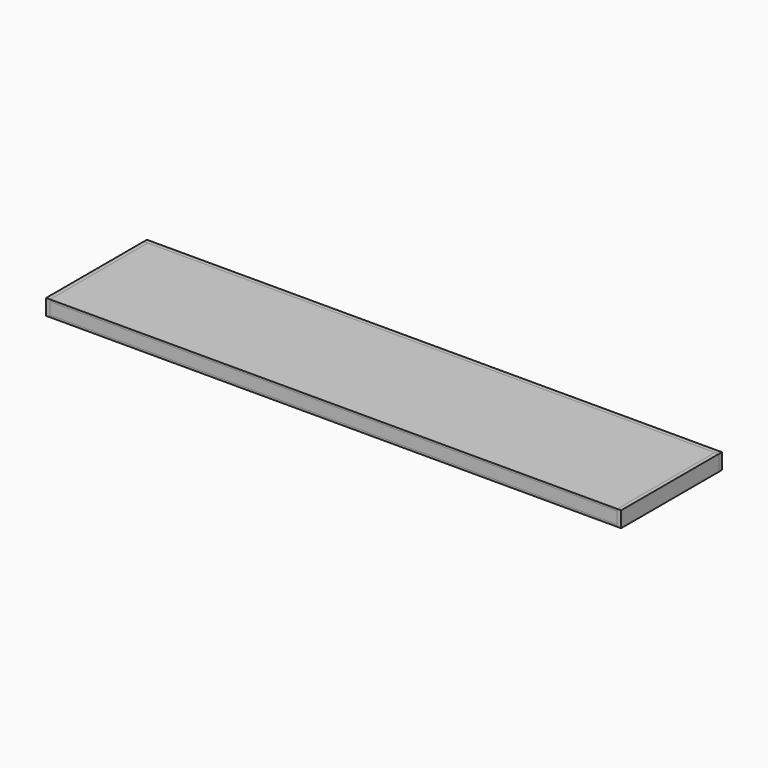
from build123d import *

# Parameters (mm, degrees)
F0_W          = 3.175
F0_H          = 3.175
F1_DEPTH      = 914.4
F2_DEPTH      = 914.4
F3_DEPTH      = 920.75
F3_DEPTH_BACK = 6.35
F4_W          = 6.35
F4_H          = 25.4
F5_DEPTH      = 196.85
F7_W          = 3.175
F7_H          = 19.05
F8_DEPTH      = 193.5988


with BuildPart() as f1:
    # F0 (on Right) → F1 (new body)
    with BuildSketch(Plane.YZ):
        Polygon((0, 15.875), (0, 0), (19.05, 0), (19.05, 3.175), (3.175, 3.175), (3.175, 15.875), align=None)
        with Locations((1.5875, 17.4625)):
            Rectangle(F0_W, F0_H)
    extrude(amount=F1_DEPTH)


with BuildPart() as f2:
    # F0 (on Right) → F2 (new body)
    with BuildSketch(Plane.YZ):
        Polygon((0, 22.225), (0, 19.05), (3.175, 19.05), (3.175, 15.875), (196.85, 15.875), (196.85, 22.225), align=None)
        Polygon((19.05, 0), (0, 0), (0, -3.175), (196.85, -3.175), (196.85, 3.175), (19.05, 3.175), align=None)
    extrude(amount=F2_DEPTH)


with BuildPart() as f3:
    # F0 (on Right) → F3 (new body, two sides)
    with BuildSketch(Plane.YZ) as f3_sk:
        Polygon((196.85, 3.175), (196.85, -3.175), (203.2, -3.175), (203.2, 22.225), (196.85, 22.225), (196.85, 15.875), align=None)
    extrude(amount=F3_DEPTH)
    extrude(f3_sk.sketch, amount=-F3_DEPTH_BACK)


with BuildPart() as f5:
    # F4 (on Front) → F5 (new body, through all)
    with BuildSketch(Plane.XZ):
        with Locations((917.575, 9.525)):
            Rectangle(F4_W, F4_H)
        with Locations((-3.175, 9.525)):
            Rectangle(F4_W, F4_H)
    extrude(amount=-F5_DEPTH)


with BuildPart() as f8:
    # F7 (on offset) → F8 (new body)
    with BuildSketch(Plane.XZ.offset(-3.2512)):
        with Locations((114.3, 9.525)):
            Rectangle(F7_W, F7_H)
        with Locations((342.9, 9.525)):
            Rectangle(F7_W, F7_H)
        with Locations((571.5, 9.525)):
            Rectangle(F7_W, F7_H)
        with Locations((800.1, 9.525)):
            Rectangle(F7_W, F7_H)
    extrude(amount=-F8_DEPTH)


solid = Compound([f1.part, f2.part, f3.part, f5.part, f8.part])
